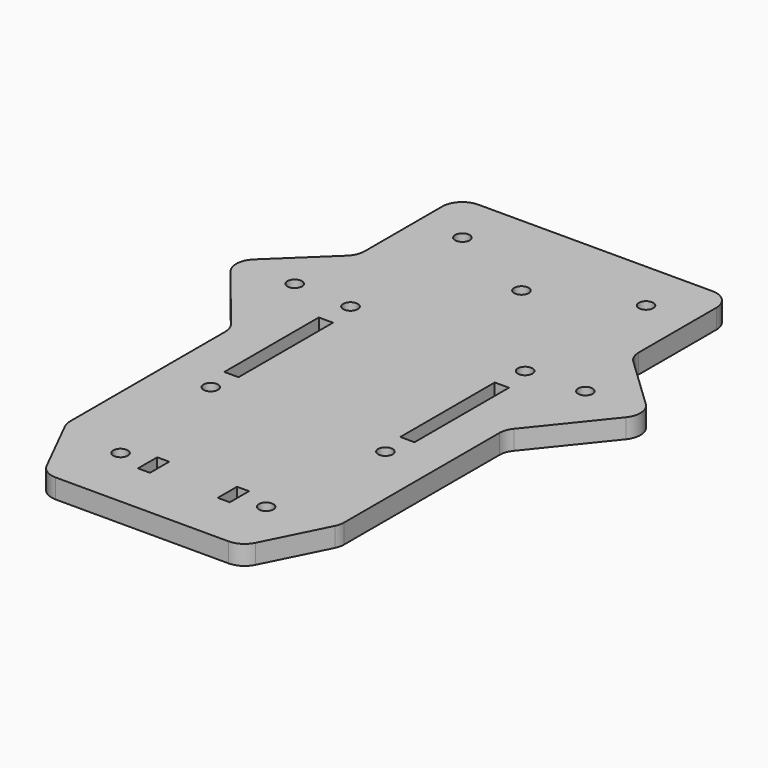
from build123d import *

# Parameters (mm, degrees)
F0_R     = 1.5
F0_W     = 2.9291845858
F0_H     = 24.3347650394
F1_DEPTH = 4


with BuildPart() as f1:
    # F0 (on Top) → F1 (new body)
    with BuildSketch(Plane.XY):
        with BuildLine():
            Line((28.2485083335, 34.4563428569), (28.2485083335, 54.4563428569))
            ThreePointArc((28.2485083335, 54.4563428569), (27.0405422554, 57.3726309455), (24.1242541668, 58.5805970237))
            Line((24.1242541668, 58.5805970237), (0, 58.5805970237))
            Line((0, 58.5805970237), (-24.1242541668, 58.5805970237))
            ThreePointArc((-24.1242541668, 58.5805970237), (-27.0405422554, 57.3726309455), (-28.2485083335, 54.4563428569))
            Line((-28.2485083335, 54.4563428569), (-28.2485083335, 34.4563428569))
            ThreePointArc((-28.2485083335, 34.4563428569), (-28.5813891701, 32.8330866531), (-29.5262960725, 31.4718661344))
            Line((-29.5262960725, 31.4718661344), (-40.3809012999, 21.1192072799))
            ThreePointArc((-40.3809012999, 21.1192072799), (-41.6497119903, 18.4066987019), (-40.7489027393, 15.5508054883))
            Line((-40.7489027393, 15.5508054883), (-29.158294633, 1.1317970714))
            ThreePointArc((-29.158294633, 1.1317970714), (-28.4825983053, -0.0824218364), (-28.2485083335, -1.4521279977))
            Line((-28.2485083335, -1.4521279977), (-28.2485083335, -41.4521279977))
            ThreePointArc((-28.2485083335, -41.4521279977), (-28.1381803066, -42.3996876928), (-27.8130990016, -43.2965510014))
            Line((-27.8130990016, -43.2965510014), (-21.5107905835, -55.9011638307))
            ThreePointArc((-21.5107905835, -55.9011638307), (-19.9901942554, -57.5650411056), (-17.8219457487, -58.1809949937))
            Line((-17.8219457487, -58.1809949937), (0, -58.1809949937))
            Line((0, -58.1809949937), (17.8219457487, -58.1809949937))
            ThreePointArc((17.8219457487, -58.1809949937), (19.9901942554, -57.5650411056), (21.5107905835, -55.9011638307))
            Line((21.5107905835, -55.9011638307), (27.8130990016, -43.2965510014))
            ThreePointArc((27.8130990016, -43.2965510014), (28.1381803066, -42.3996876928), (28.2485083335, -41.4521279977))
            Line((28.2485083335, -41.4521279977), (28.2485083335, -1.4521279977))
            ThreePointArc((28.2485083335, -1.4521279977), (28.4825983053, -0.0824218364), (29.158294633, 1.1317970714))
            Line((29.158294633, 1.1317970714), (40.7489027393, 15.5508054883))
            ThreePointArc((40.7489027393, 15.5508054883), (41.6497119903, 18.4066987019), (40.3809012999, 21.1192072799))
            Line((40.3809012999, 21.1192072799), (29.5262960725, 31.4718661344))
            ThreePointArc((29.5262960725, 31.4718661344), (28.5813891701, 32.8330866531), (28.2485083335, 34.4563428569))
        make_face()
        with Locations((-15, -44.9954515789)):
            Circle(F0_R, mode=Mode.SUBTRACT)
        Polygon((-6.9849789143, -42.4731783569), (-6.9849789143, -44.9954515789), (-6.9849789143, -47.4302582443), (-9.463518858, -47.4302582443), (-9.463518858, -44.9954515789), (-9.463518858, -42.4731783569), align=None, mode=Mode.SUBTRACT)
        with Locations((-18, -18)):
            Circle(F0_R, mode=Mode.SUBTRACT)
        with Locations((-18.1384123862, -0.3379820846)):
            Rectangle(F0_W, F0_H, mode=Mode.SUBTRACT)
        Polygon((9.463518858, -42.4731783569), (9.463518858, -44.9954515789), (9.463518858, -47.4302582443), (6.9849789143, -47.4302582443), (6.9849789143, -44.9954515789), (6.9849789143, -42.4731783569), align=None, mode=Mode.SUBTRACT)
        with BuildLine():
            ThreePointArc((13.5, -44.9954515789), (15, -43.4954515789), (16.5, -44.9954515789))
            ThreePointArc((16.5, -44.9954515789), (15, -46.4954515789), (13.5, -44.9954515789))
        make_face(mode=Mode.SUBTRACT)
        with Locations((18, -18)):
            Circle(F0_R, mode=Mode.SUBTRACT)
        with Locations((18.1384123862, -0.3379820846)):
            Rectangle(F0_W, F0_H, mode=Mode.SUBTRACT)
        with Locations((-29.9585536122, 18.5773223639)):
            Circle(F0_R, mode=Mode.SUBTRACT)
        with Locations((-18, 18)):
            Circle(F0_R, mode=Mode.SUBTRACT)
        with Locations((0, 39.5470149815)):
            Circle(F0_R, mode=Mode.SUBTRACT)
        with Locations((-18.9252551645, 47.9994341731)):
            Circle(F0_R, mode=Mode.SUBTRACT)
        with Locations((18, 18)):
            Circle(F0_R, mode=Mode.SUBTRACT)
        with Locations((29.9585536122, 18.5773223639)):
            Circle(F0_R, mode=Mode.SUBTRACT)
        with Locations((18.9252551645, 47.9994341731)):
            Circle(F0_R, mode=Mode.SUBTRACT)
    extrude(amount=F1_DEPTH)


solid = f1.part
